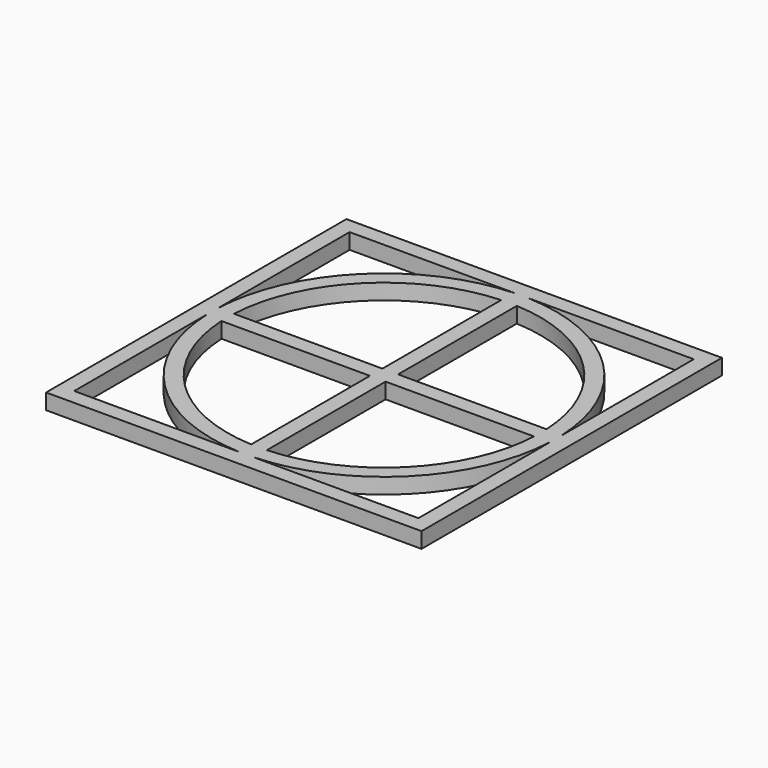
from build123d import *

# Parameters (mm, degrees)
F0_W     = 120
F0_H     = 120
F1_DEPTH = 5


with BuildPart() as f1:
    # F0 (on Top) → F1 (new body)
    with BuildSketch(Plane.XY):
        Rectangle(F0_W, F0_H)
        with BuildLine():
            Line((-2.5, -55), (-55, -55))
            Line((-55, -55), (-55, -2.5))
            Line((-55, -2.5), (-54.943152, -2.5))
            ThreePointArc((-54.943152, -2.5), (-38.890873, -38.890873), (-2.5, -54.943152))
            Line((-2.5, -54.943152), (-2.5, -55))
        make_face(mode=Mode.SUBTRACT)
        with BuildLine():
            ThreePointArc((-2.5, -49.937461), (-35.355339, -35.355339), (-49.937461, -2.5))
            Line((-49.937461, -2.5), (-2.5, -2.5))
            Line((-2.5, -2.5), (-2.5, -49.937461))
        make_face(mode=Mode.SUBTRACT)
        with BuildLine():
            Line((55, -55), (2.5, -55))
            Line((2.5, -55), (2.5, -54.943152))
            ThreePointArc((2.5, -54.943152), (38.890873, -38.890873), (54.943152, -2.5))
            Line((54.943152, -2.5), (55, -2.5))
            Line((55, -2.5), (55, -55))
        make_face(mode=Mode.SUBTRACT)
        with BuildLine():
            ThreePointArc((49.937461, -2.5), (35.355339, -35.355339), (2.5, -49.937461))
            Line((2.5, -49.937461), (2.5, -2.5))
            Line((2.5, -2.5), (49.937461, -2.5))
        make_face(mode=Mode.SUBTRACT)
        with BuildLine():
            Line((-2.5, 2.5), (-49.937461, 2.5))
            ThreePointArc((-49.937461, 2.5), (-35.355339, 35.355339), (-2.5, 49.937461))
            Line((-2.5, 49.937461), (-2.5, 2.5))
        make_face(mode=Mode.SUBTRACT)
        with BuildLine():
            Line((-2.5, 55), (-2.5, 54.943152))
            ThreePointArc((-2.5, 54.943152), (-38.890873, 38.890873), (-54.943152, 2.5))
            Line((-54.943152, 2.5), (-55, 55))
            Line((-55, 55), (-2.5, 55))
        make_face(mode=Mode.SUBTRACT)
        with BuildLine():
            ThreePointArc((2.5, 49.937461), (35.355339, 35.355339), (49.937461, 2.5))
            Line((49.937461, 2.5), (2.5, 2.5))
            Line((2.5, 2.5), (2.5, 49.937461))
        make_face(mode=Mode.SUBTRACT)
        with BuildLine():
            Line((2.5, 54.943152), (2.5, 55))
            Line((2.5, 55), (55, 55))
            Line((55, 55), (55, 2.5))
            Line((55, 2.5), (54.943152, 2.5))
            ThreePointArc((54.943152, 2.5), (38.890873, 38.890873), (2.5, 54.943152))
        make_face(mode=Mode.SUBTRACT)
    extrude(amount=F1_DEPTH)


solid = f1.part
